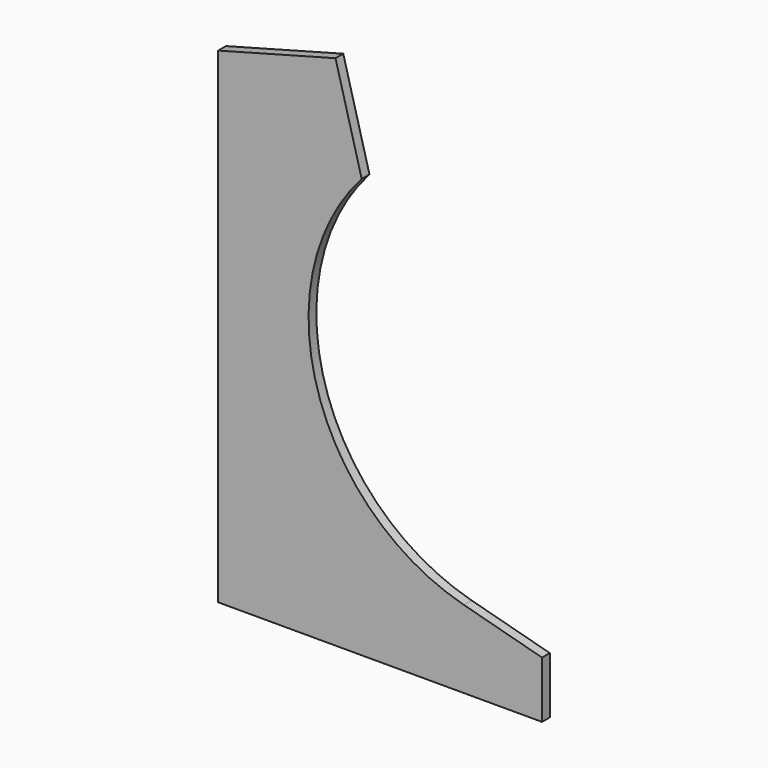
from build123d import *

# Parameters (mm, degrees)
F1_DEPTH = 12


with BuildPart() as f1:
    # F0 (on Front) → F1 (new body)
    with BuildSketch(Plane.XZ):
        with BuildLine():
            Line((0, 600), (0, 0))
            Line((0, 0), (400, 0))
            Line((400, 0), (400, 70))
            Line((400, 70), (303.407417, 95.881905))
            ThreePointArc((303.407417, 95.881905), (122.435676, 271.753329), (177.241255, 518.082128))
            Line((177.241255, 518.082128), (144.888874, 638.822857))
            Line((144.888874, 638.822857), (0, 600))
        make_face()
    extrude(amount=F1_DEPTH)


solid = f1.part
